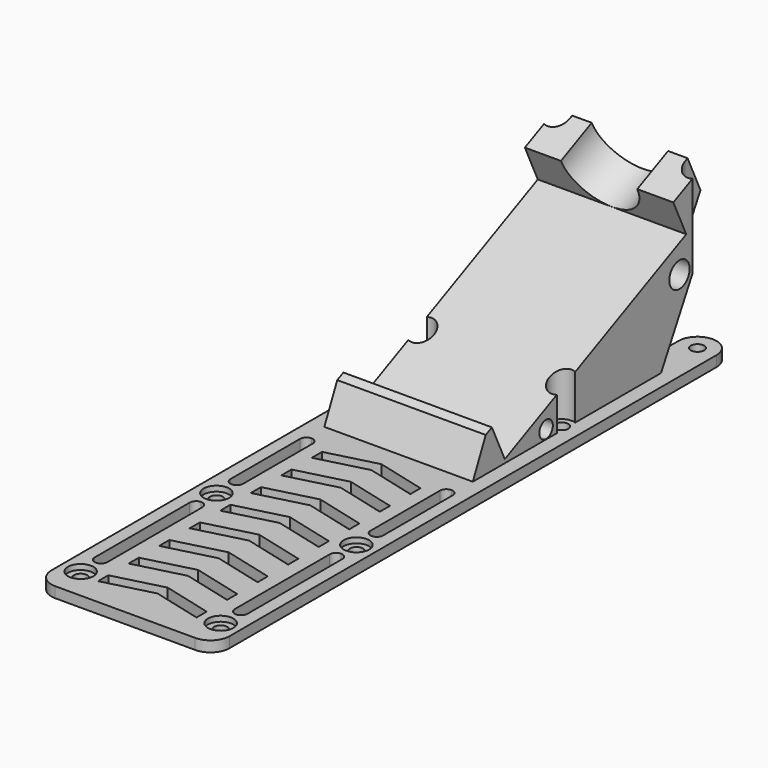
from build123d import *

# Parameters (mm, degrees)
F1_R          = 2
F1_R_2        = 3
F2_DEPTH      = 17.5
F2_DEPTH_BACK = 17.5
F3_R          = 9
F4_DEPTH      = 25
F0_R          = 1.55
F5_DEPTH      = 2.5
F6_R          = 3
F6_R_2        = 1.55
F6_R_3        = 2.9
F7_DEPTH      = 50
F9_DEPTH      = 25
F11_DEPTH     = 50
F12_DEPTH     = 1.25


with BuildPart() as f2:
    # F1 (on Right) → F2 (new body, two sides)
    with BuildSketch(Plane.YZ) as f2_sk:
        Polygon((8.5985827647, 10.6567700833), (12.4021471204, 2.5), (14.2147626945, 3.3452365235), (10.4111983388, 11.5020066068), align=None)
        Polygon((63.883357774, 36.4364840495), (67.6869221296, 28.2797139662), (76.75, 32.5058965836), (72.9464356443, 40.6626666669), align=None)
        Polygon((14.2147626945, 3.3452365235), (12.4021471204, 2.5), (60.25, 2.5), (76.75, 32.5058965836), (67.6869221296, 28.2797139662), align=None)
        with Locations((26.3704179861, 4.6)):
            Circle(F1_R, mode=Mode.SUBTRACT)
        with Locations((65.6910927649, 20.7287759353)):
            Circle(F1_R_2, mode=Mode.SUBTRACT)
        Polygon((8.5985827647, 2.5), (12.4021471204, 2.5), (8.5985827647, 10.6567700833), align=None)
        Polygon((8.5985827647, 2.5), (8.5985827647, 10.6567700833), (4.7950184091, 2.5), align=None)
    extrude(amount=F2_DEPTH)
    extrude(f2_sk.sketch, amount=-F2_DEPTH_BACK)

    # F3 (on face) → F4 (cut)
    with BuildSketch(Plane(origin=(0, 75.492455245, 35.2027100136), x_dir=(-1, 0, 0), z_dir=(0, 0.906307787, 0.4226182617))):
        with Locations((0, 6.0243956097)):
            Circle(F3_R)
    extrude(amount=-F4_DEPTH, mode=Mode.SUBTRACT)

    # F0 (on Top) → F5 (join)
    with BuildSketch(Plane.XY):
        with BuildLine():
            Line((21, -71.25), (21, 72.25))
            ThreePointArc((21, 72.25), (19.6819805153, 75.4319805153), (16.5, 76.75))
            ThreePointArc((16.5, 76.75), (13.3180194847, 75.4319805153), (12, 72.25))
            Line((12, 72.25), (12, 64.75))
            ThreePointArc((12, 64.75), (10.6819805153, 61.5680194847), (7.5, 60.25))
            Line((7.5, 60.25), (-7.5, 60.25))
            ThreePointArc((-7.5, 60.25), (-10.6819805153, 61.5680194847), (-12, 64.75))
            Line((-12, 64.75), (-12, 72.25))
            ThreePointArc((-12, 72.25), (-13.3180194847, 75.4319805153), (-16.5, 76.75))
            ThreePointArc((-16.5, 76.75), (-19.6819805153, 75.4319805153), (-21, 72.25))
            Line((-21, 72.25), (-21, -71.25))
            ThreePointArc((-21, -71.25), (-19.6819805153, -74.4319805153), (-16.5, -75.75))
            Line((-16.5, -75.75), (16.5, -75.75))
            ThreePointArc((16.5, -75.75), (19.6819805153, -74.4319805153), (21, -71.25))
        make_face()
        with Locations((-16.5, -68.25)):
            Circle(F0_R, mode=Mode.SUBTRACT)
        with BuildLine():
            ThreePointArc((-16.5, -32.75), (-15.4393398282, -33.1893398282), (-15, -34.25))
            Line((-15, -34.25), (-15, -62.25))
            ThreePointArc((-15, -62.25), (-15.4393398282, -63.3106601718), (-16.5, -63.75))
            ThreePointArc((-16.5, -63.75), (-17.5606601718, -63.3106601718), (-18, -62.25))
            Line((-18, -62.25), (-18, -34.25))
            ThreePointArc((-18, -34.25), (-17.5606601718, -33.1893398282), (-16.5, -32.75))
        make_face(mode=Mode.SUBTRACT)
        with Locations((-16.5, -28.25)):
            Circle(F0_R, mode=Mode.SUBTRACT)
        with BuildLine():
            ThreePointArc((-16.5, -0.25), (-15.4393398282, -0.6893398282), (-15, -1.75))
            Line((-15, -1.75), (-15, -22.25))
            ThreePointArc((-15, -22.25), (-15.4393398282, -23.3106601718), (-16.5, -23.75))
            ThreePointArc((-16.5, -23.75), (-17.5606601718, -23.3106601718), (-18, -22.25))
            Line((-18, -22.25), (-18, -1.75))
            ThreePointArc((-18, -1.75), (-17.5606601718, -0.6893398282), (-16.5, -0.25))
        make_face(mode=Mode.SUBTRACT)
        with Locations((16.5, -68.25)):
            Circle(F0_R, mode=Mode.SUBTRACT)
        with BuildLine():
            Line((15, -62.25), (15, -34.25))
            ThreePointArc((15, -34.25), (15.4393398282, -33.1893398282), (16.5, -32.75))
            ThreePointArc((16.5, -32.75), (17.5606601718, -33.1893398282), (18, -34.25))
            Line((18, -34.25), (18, -62.25))
            ThreePointArc((18, -62.25), (17.5606601718, -63.3106601718), (16.5, -63.75))
            ThreePointArc((16.5, -63.75), (15.4393398282, -63.3106601718), (15, -62.25))
        make_face(mode=Mode.SUBTRACT)
        with Locations((16.5, -28.25)):
            Circle(F0_R, mode=Mode.SUBTRACT)
        with BuildLine():
            Line((15, -22.25), (15, -1.75))
            ThreePointArc((15, -1.75), (15.4393398282, -0.6893398282), (16.5, -0.25))
            ThreePointArc((16.5, -0.25), (17.5606601718, -0.6893398282), (18, -1.75))
            Line((18, -1.75), (18, -22.25))
            ThreePointArc((18, -22.25), (17.5606601718, -23.3106601718), (16.5, -23.75))
            ThreePointArc((16.5, -23.75), (15.4393398282, -23.3106601718), (15, -22.25))
        make_face(mode=Mode.SUBTRACT)
        with Locations((-16.5, 32.25)):
            Circle(F0_R, mode=Mode.SUBTRACT)
        with Locations((-16.5, 72.25)):
            Circle(F0_R, mode=Mode.SUBTRACT)
        with Locations((16.5, 32.25)):
            Circle(F0_R, mode=Mode.SUBTRACT)
        with Locations((16.5, 72.25)):
            Circle(F0_R, mode=Mode.SUBTRACT)
    extrude(amount=F5_DEPTH)

    # F6 (on face) → F7 (cut)
    with BuildSketch(Plane.XY.offset(2.5)):
        with Locations((-16.5, -28.25)):
            Circle(F6_R)
        with Locations((-16.5, -28.25)):
            Circle(F6_R_2, mode=Mode.SUBTRACT)
        with Locations((16.5, -28.25)):
            Circle(F6_R)
        with Locations((16.5, -28.25)):
            Circle(F6_R_2, mode=Mode.SUBTRACT)
        with Locations((-16.5, -68.25)):
            Circle(F6_R)
        with Locations((-16.5, -68.25)):
            Circle(F6_R_2, mode=Mode.SUBTRACT)
        with Locations((16.5, -68.25)):
            Circle(F6_R)
        with Locations((16.5, -68.25)):
            Circle(F6_R_2, mode=Mode.SUBTRACT)
        with Locations((16.5, 72.25)):
            Circle(F6_R_3)
        with Locations((16.5, 72.25)):
            Circle(F6_R_2, mode=Mode.SUBTRACT)
        with Locations((-16.5, 72.25)):
            Circle(F6_R_3)
        with Locations((-16.5, 72.25)):
            Circle(F6_R_2, mode=Mode.SUBTRACT)
        with BuildLine():
            ThreePointArc((-17.5, 29.5278684822), (-14.8401807327, 29.8719756099), (-13.6, 32.25))
            ThreePointArc((-13.6, 32.25), (-14.8401807327, 34.6280243901), (-17.5, 34.9721315178))
            Line((-17.5, 34.9721315178), (-17.5, 33.4342719282))
            ThreePointArc((-17.5, 33.4342719282), (-18.05, 32.25), (-17.5, 31.0657280718))
            Line((-17.5, 31.0657280718), (-17.5, 29.5278684822))
        make_face()
        with BuildLine():
            ThreePointArc((17.5, 34.9721315178), (13.6, 32.25), (17.5, 29.5278684822))
            Line((17.5, 29.5278684822), (17.5, 31.0657280718))
            ThreePointArc((17.5, 31.0657280718), (17.905791592, 31.5971217571), (18.05, 32.25))
            ThreePointArc((18.05, 32.25), (17.905791592, 32.9028782429), (17.5, 33.4342719282))
            Line((17.5, 33.4342719282), (17.5, 34.9721315178))
        make_face()
        with Locations((16.5, -28.25)):
            Circle(F6_R_2)
        with Locations((-16.5, -28.25)):
            Circle(F6_R_2)
        with Locations((-16.5, -68.25)):
            Circle(F6_R_2)
        with Locations((16.5, -68.25)):
            Circle(F6_R_2)
        with Locations((16.5, 72.25)):
            Circle(F6_R_2)
        with Locations((-16.5, 72.25)):
            Circle(F6_R_2)
        with BuildLine():
            Line((-17.5, 33.4342719282), (-17.5, 34.9721315178))
            ThreePointArc((-17.5, 34.9721315178), (-19.4, 32.25), (-17.5, 29.5278684822))
            Line((-17.5, 29.5278684822), (-17.5, 31.0657280718))
            ThreePointArc((-17.5, 31.0657280718), (-18.05, 32.25), (-17.5, 33.4342719282))
        make_face()
        with BuildLine():
            Line((17.5, 31.0657280718), (17.5, 29.5278684822))
            ThreePointArc((17.5, 29.5278684822), (18.8780243901, 30.5901807327), (19.4, 32.25))
            ThreePointArc((19.4, 32.25), (18.8780243901, 33.9098192673), (17.5, 34.9721315178))
            Line((17.5, 34.9721315178), (17.5, 33.4342719282))
            ThreePointArc((17.5, 33.4342719282), (17.905791592, 32.9028782429), (18.05, 32.25))
            ThreePointArc((18.05, 32.25), (17.905791592, 31.5971217571), (17.5, 31.0657280718))
        make_face()
    extrude(amount=F7_DEPTH, mode=Mode.SUBTRACT)

    # F8 (on face) → F9 (cut)
    with BuildSketch(Plane.XY.offset(2.5)):
        Polygon((11.6, -3.25), (0, -0.25), (-11.6, -3.25), (-11.6, -6.25), (0, -3.25), (11.6, -6.25), align=None)
        Polygon((0, -9.25), (-11.6, -12.25), (-11.6, -15.25), (0, -12.25), (11.6, -15.25), (11.6, -12.25), align=None)
        Polygon((0, -18.25), (-11.6, -21.25), (-11.6, -24.25), (0, -21.25), (11.6, -24.25), (11.6, -21.25), align=None)
        Polygon((0, -27.25), (-11.6, -30.25), (-11.6, -33.25), (0, -30.25), (11.6, -33.25), (11.6, -30.25), align=None)
        Polygon((0, -36.25), (-11.6, -39.25), (-11.6, -42.25), (0, -39.25), (11.6, -42.25), (11.6, -39.25), align=None)
        Polygon((0, -45.25), (-11.6, -48.25), (-11.6, -51.25), (0, -48.25), (11.6, -51.25), (11.6, -48.25), align=None)
        Polygon((0, -54.25), (-11.6, -57.25), (-11.6, -60.25), (0, -57.25), (11.6, -60.25), (11.6, -57.25), align=None)
        Polygon((0, -63.25), (-11.6, -66.25), (-11.6, -69.25), (0, -66.25), (11.6, -69.25), (11.6, -66.25), align=None)
    extrude(amount=-F9_DEPTH, mode=Mode.SUBTRACT)

    # F10 (on face) → F11 (cut)
    with BuildSketch(Plane.XY.offset(2.5)):
        with BuildLine():
            ThreePointArc((14.95, 72.25), (15.6128552192, 73.5210130361), (17.0344827586, 73.7049323629))
            Line((17.0344827586, 73.7049323629), (17.5, 74.9721315178))
            Line((17.5, 74.9721315178), (17.5, 76.6374821937))
            ThreePointArc((17.5, 76.6374821937), (17.0031551095, 76.7217820761), (16.5, 76.75))
            ThreePointArc((16.5, 76.75), (14.9563331772, 76.4769483958), (13.6, 75.6909301068))
            Line((13.6, 75.6909301068), (13.6, 72.25))
            Line((13.6, 72.25), (14.95, 72.25))
        make_face()
        with BuildLine():
            Line((13.6, 76.75), (13.6, 75.6909301068))
            ThreePointArc((13.6, 75.6909301068), (14.9563331772, 76.4769483958), (16.5, 76.75))
            Line((16.5, 76.75), (13.6, 76.75))
        make_face()
        with BuildLine():
            Line((-13.6, 76.75), (-16.5, 76.75))
            ThreePointArc((-16.5, 76.75), (-14.9563331772, 76.4769483958), (-13.6, 75.6909301068))
            Line((-13.6, 75.6909301068), (-13.6, 76.75))
        make_face()
        with BuildLine():
            ThreePointArc((-16.5, 76.75), (-17.0031551095, 76.7217820761), (-17.5, 76.6374821937))
            Line((-17.5, 76.6374821937), (-17.5, 74.9721315178))
            Line((-17.5, 74.9721315178), (-17.0344827586, 73.7049323629))
            ThreePointArc((-17.0344827586, 73.7049323629), (-15.6128552192, 73.5210130361), (-14.95, 72.25))
            Line((-14.95, 72.25), (-13.6, 72.25))
            Line((-13.6, 72.25), (-13.6, 75.6909301068))
            ThreePointArc((-13.6, 75.6909301068), (-14.9563331772, 76.4769483958), (-16.5, 76.75))
        make_face()
        with BuildLine():
            Line((-17.5, 76.75), (-17.5, 76.6374821937))
            ThreePointArc((-17.5, 76.6374821937), (-17.0031551095, 76.7217820761), (-16.5, 76.75))
            Line((-16.5, 76.75), (-17.5, 76.75))
        make_face()
        with BuildLine():
            ThreePointArc((16.5, 76.75), (17.0031551095, 76.7217820761), (17.5, 76.6374821937))
            Line((17.5, 76.6374821937), (17.5, 76.75))
            Line((17.5, 76.75), (16.5, 76.75))
        make_face()
    extrude(amount=F11_DEPTH, mode=Mode.SUBTRACT)

    # F6 (on face) → F12 (cut)
    with BuildSketch(Plane.XY.offset(2.5)):
        with Locations((-16.5, -28.25)):
            Circle(F6_R)
        with Locations((-16.5, -28.25)):
            Circle(F6_R_2, mode=Mode.SUBTRACT)
        with Locations((16.5, -28.25)):
            Circle(F6_R)
        with Locations((16.5, -28.25)):
            Circle(F6_R_2, mode=Mode.SUBTRACT)
        with Locations((16.5, -68.25)):
            Circle(F6_R)
        with Locations((16.5, -68.25)):
            Circle(F6_R_2, mode=Mode.SUBTRACT)
        with Locations((-16.5, -68.25)):
            Circle(F6_R)
        with Locations((-16.5, -68.25)):
            Circle(F6_R_2, mode=Mode.SUBTRACT)
    extrude(amount=-F12_DEPTH, mode=Mode.SUBTRACT)


solid = f2.part
